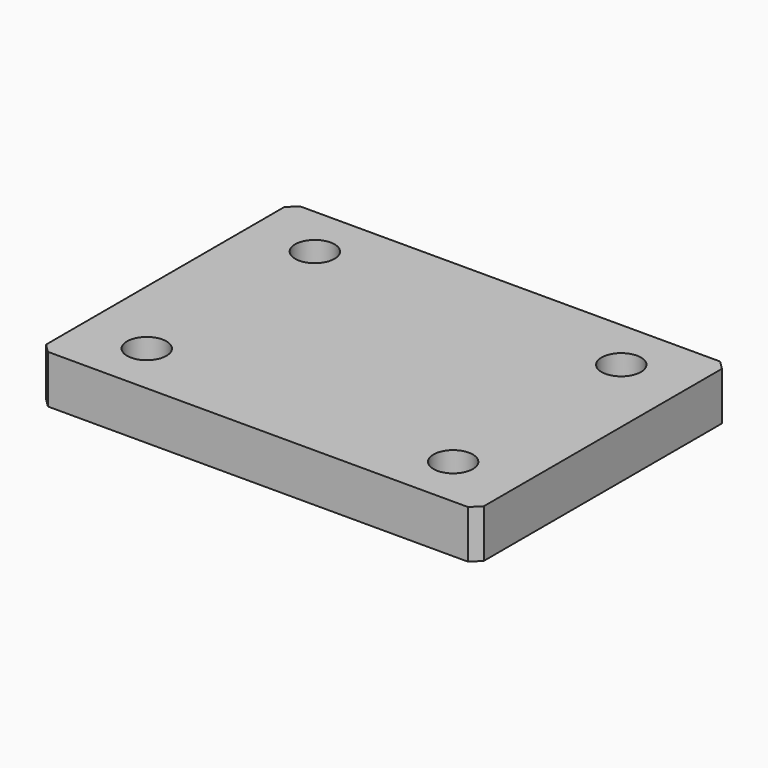
from build123d import *

# Parameters (mm, degrees)
SKETCH_W              = 50
SKETCH_H              = 36
PAD_DEPTH             = 5.5
SKETCH001_R           = 2.25
HOLE_DEPTH            = 25
CHAMFER_SIZE          = 1
CLONE_PLACEMENT_ANGLE = 180


with BuildPart() as part:
    # Sketch → Pad (new body)
    with BuildSketch(Plane.XY):
        Rectangle(SKETCH_W, SKETCH_H)
    extrude(amount=-PAD_DEPTH)

    # Sketch001 → Hole (cut)
    with BuildSketch(Plane.XY):
        with Locations((-17.5, 12)):
            Circle(SKETCH001_R)
        with Locations((17.5, 12)):
            Circle(SKETCH001_R)
        with Locations((17.5, -12)):
            Circle(SKETCH001_R)
        with Locations((-17.5, -12)):
            Circle(SKETCH001_R)
    extrude(amount=-HOLE_DEPTH, mode=Mode.SUBTRACT)

    # Chamfer
    chamfer_edges = [part.edges().sort_by_distance(p)[0] for p in [
        (-25, -18, -2.75),
        (25, -18, -2.75),
        (-25, 18, -2.75),
        (25, 18, -2.75),
    ]]
    chamfer(chamfer_edges, length=CHAMFER_SIZE)


with BuildPart() as part_1:
    # Clone placement: moved
    add(part.part.moved(Location((18, -20, 0))).rotate(Axis((18, -20, 0), (0, 0, 1)), CLONE_PLACEMENT_ANGLE))


solid = part_1.part
